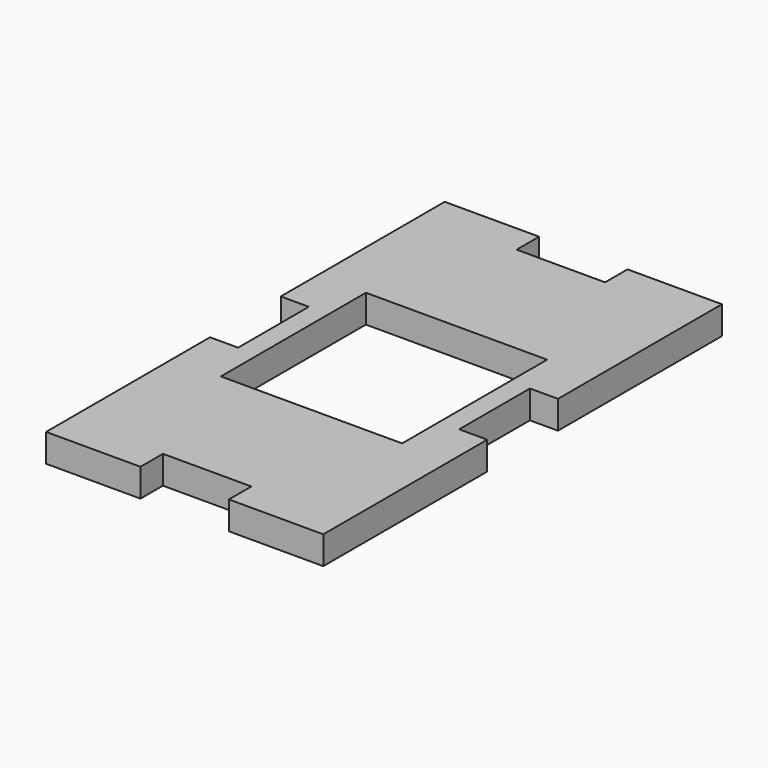
from build123d import *

# Parameters (mm, degrees)
F0_W     = 15
F0_H     = 6.35
F0_W_2   = 41
F0_H_2   = 41
F0_W_3   = 6.35
F0_H_3   = 40
F1_DEPTH = 6.35


with BuildPart() as f1:
    # F0 (on Top) → F1 (new body)
    with BuildSketch(Plane.XY):
        with Locations((-21.15, 56.825)):
            Rectangle(F0_W, F0_H)
        Polygon((-13.65, 53.65), (-28.65, 53.65), (-28.65, 13.65), (-28.65, -6.35), (-28.65, -46.35), (-13.65, -46.35), (6.35, -46.35), (21.35, -46.35), (21.35, -6.35), (21.35, 13.65), (21.35, 53.65), (6.35, 53.65), align=None)
        with Locations((-3.65, 3.65)):
            Rectangle(F0_W_2, F0_H_2, mode=Mode.SUBTRACT)
        with Locations((-31.825, 33.65)):
            Rectangle(F0_W_3, F0_H_3)
        with Locations((-31.825, 56.825)):
            Rectangle(F0_W_3, F0_H)
        with Locations((13.85, 56.825)):
            Rectangle(F0_W, F0_H)
        with Locations((-31.825, -26.35)):
            Rectangle(F0_W_3, F0_H_3)
        with Locations((24.525, 33.65)):
            Rectangle(F0_W_3, F0_H_3)
        with Locations((24.525, 56.825)):
            Rectangle(F0_W_3, F0_H)
        with Locations((-31.825, -49.525)):
            Rectangle(F0_W_3, F0_H)
        with Locations((-21.15, -49.525)):
            Rectangle(F0_W, F0_H)
        with Locations((24.525, -26.35)):
            Rectangle(F0_W_3, F0_H_3)
        with Locations((13.85, -49.525)):
            Rectangle(F0_W, F0_H)
        with Locations((24.525, -49.525)):
            Rectangle(F0_W_3, F0_H)
    extrude(amount=F1_DEPTH)


solid = f1.part
